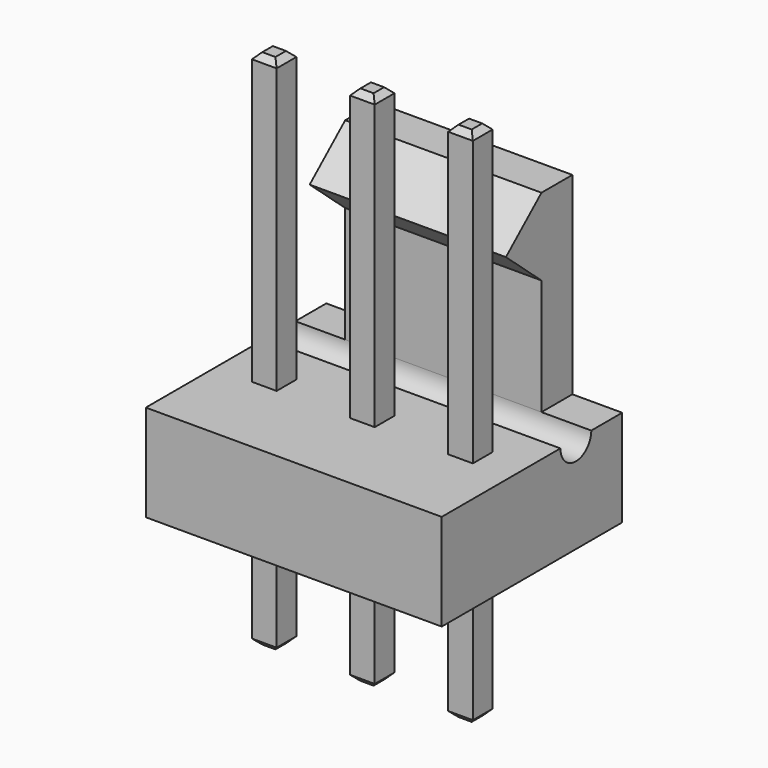
from build123d import *

# Parameters (mm, degrees)
SKETCH_W          = 7.66
SKETCH_H          = 5.84
PAD_DEPTH         = 2.5
SKETCH001_W       = 5.08
SKETCH001_H       = 1
PAD001_DEPTH      = 5
PAD002_DEPTH      = 5.08
POCKET_DEPTH      = 7.661
SKETCH011_W       = 0.64
SKETCH011_H       = 0.64
PAD003_DEPTH      = 10
PAD003_DEPTH_BACK = 3.5
CHAMFER002_SIZE   = 0.15
CHAMFER003_SIZE   = 0.15
SKETCH012_W       = 0.64
SKETCH012_H       = 0.64
PAD004_DEPTH      = 10
PAD004_DEPTH_BACK = 3.5
CHAMFER001_SIZE   = 0.15
CHAMFER004_SIZE   = 0.15
SKETCH013_W       = 0.64
SKETCH013_H       = 0.64
PAD005_DEPTH      = 10
PAD005_DEPTH_BACK = 3.5
CHAMFER_SIZE      = 0.15
CHAMFER005_SIZE   = 0.15


with BuildPart() as pocket:
    # Sketch → Pad (new body)
    with BuildSketch(Plane.XY):
        with Locations((-2.54, 0.38)):
            Rectangle(SKETCH_W, SKETCH_H)
    extrude(amount=PAD_DEPTH)

    # Sketch001 → Pad001 (new body)
    with BuildSketch(Plane.XY.offset(2.5)):
        with Locations((-2.54, 2.8)):
            Rectangle(SKETCH001_W, SKETCH001_H)
    extrude(amount=PAD001_DEPTH)

    # Sketch002 → Pad002 (new body)
    with BuildSketch(Plane.YZ):
        Polygon((2.3, 7.5), (2.3, 5.5), (1.15, 6.5), align=None)
    extrude(amount=-PAD002_DEPTH)

    # Sketch015 → Pocket (cut, through all)
    with BuildSketch(Plane.YZ.offset(1.29)):
        with BuildLine():
            ThreePointArc((1.3, 2.5), (1.8, 2), (2.3, 2.5))
            Line((1.3, 2.5), (2.3, 2.5))
        make_face()
    extrude(amount=-POCKET_DEPTH, mode=Mode.SUBTRACT)


with BuildPart() as chamfer003:
    # Sketch011 → Pad003 (new body, two sides)
    with BuildSketch(Plane.XY) as pad003_sk:
        Rectangle(SKETCH011_W, SKETCH011_H)
    extrude(amount=PAD003_DEPTH)
    extrude(pad003_sk.sketch, amount=-PAD003_DEPTH_BACK)

    # Chamfer002
    chamfer002_edges = [chamfer003.edges().sort_by_distance(p)[0] for p in [
        (0, 0.32, 10),
        (0.32, 0, 10),
        (0, -0.32, 10),
        (-0.32, 0, 10),
    ]]
    chamfer(chamfer002_edges, length=CHAMFER002_SIZE)

    # Chamfer003
    chamfer003_edges = [chamfer003.edges().sort_by_distance(p)[0] for p in [
        (0, 0.32, -3.5),
        (0.32, 0, -3.5),
        (0, -0.32, -3.5),
        (-0.32, 0, -3.5),
    ]]
    chamfer(chamfer003_edges, length=CHAMFER003_SIZE)


with BuildPart() as chamfer004:
    # Sketch012 → Pad004 (new body, two sides)
    with BuildSketch(Plane.XY) as pad004_sk:
        with Locations((-2.54, 0)):
            Rectangle(SKETCH012_W, SKETCH012_H)
    extrude(amount=PAD004_DEPTH)
    extrude(pad004_sk.sketch, amount=-PAD004_DEPTH_BACK)

    # Chamfer001
    chamfer001_edges = [chamfer004.edges().sort_by_distance(p)[0] for p in [
        (-2.54, 0.32, 10),
        (-2.22, 0, 10),
        (-2.54, -0.32, 10),
        (-2.86, 0, 10),
    ]]
    chamfer(chamfer001_edges, length=CHAMFER001_SIZE)

    # Chamfer004
    chamfer004_edges = [chamfer004.edges().sort_by_distance(p)[0] for p in [
        (-2.54, 0.32, -3.5),
        (-2.22, 0, -3.5),
        (-2.54, -0.32, -3.5),
        (-2.86, 0, -3.5),
    ]]
    chamfer(chamfer004_edges, length=CHAMFER004_SIZE)


with BuildPart() as chamfer005:
    # Sketch013 → Pad005 (new body, two sides)
    with BuildSketch(Plane.XY) as pad005_sk:
        with Locations((-5.08, 0)):
            Rectangle(SKETCH013_W, SKETCH013_H)
    extrude(amount=PAD005_DEPTH)
    extrude(pad005_sk.sketch, amount=-PAD005_DEPTH_BACK)

    # Chamfer
    chamfer_edges = [chamfer005.edges().sort_by_distance(p)[0] for p in [
        (-5.08, 0.32, 10),
        (-4.76, 0, 10),
        (-5.08, -0.32, 10),
        (-5.4, 0, 10),
    ]]
    chamfer(chamfer_edges, length=CHAMFER_SIZE)

    # Chamfer005
    chamfer005_edges = [chamfer005.edges().sort_by_distance(p)[0] for p in [
        (-5.08, 0.32, -3.5),
        (-4.76, 0, -3.5),
        (-5.08, -0.32, -3.5),
        (-5.4, 0, -3.5),
    ]]
    chamfer(chamfer005_edges, length=CHAMFER005_SIZE)


solid = Compound([pocket.part, chamfer003.part, chamfer004.part, chamfer005.part])
